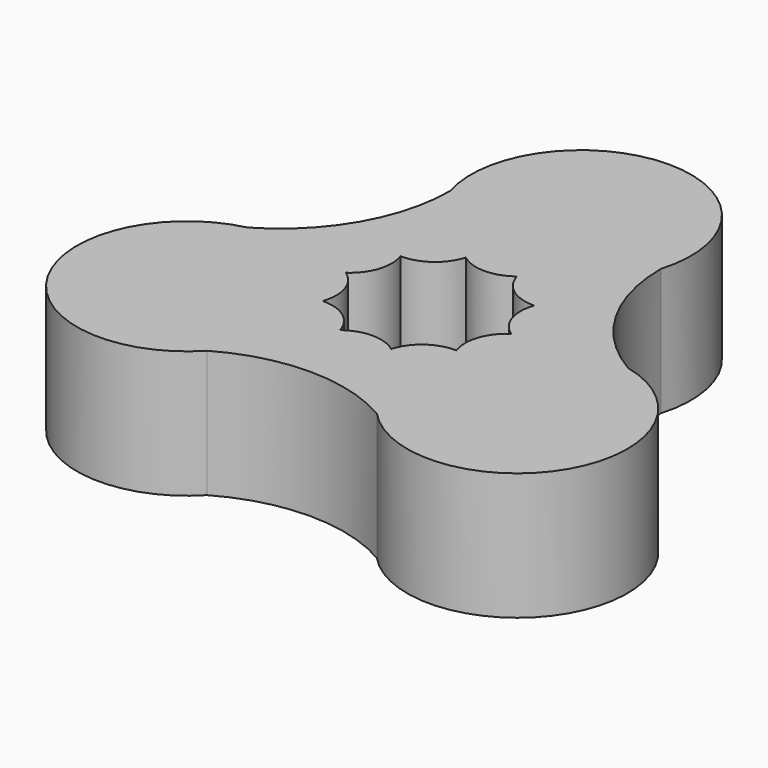
from build123d import *

# Parameters (mm, degrees)
PAD_DEPTH = 10


with BuildPart() as part:
    # Sketch → Pad (new body)
    with BuildSketch(Plane.XY):
        with BuildLine():
            ThreePointArc((8.291561, 12.500001), (10.081337, 5.820463), (14.971099, 0.930702))
            ThreePointArc((6.679538, -13.430703), (20.49038, -11.830126), (14.971099, 0.930702))
            ThreePointArc((6.679538, -13.430703), (0, -11.640926), (-6.679538, -13.430703))
            ThreePointArc((-14.971099, 0.930702), (-20.49038, -11.830126), (-6.679538, -13.430703))
            ThreePointArc((-14.971099, 0.930702), (-10.081337, 5.820463), (-8.291561, 12.500001))
            ThreePointArc((8.291561, 12.500001), (0, 23.660253), (-8.291561, 12.500001))
        make_face()
        with BuildLine():
            ThreePointArc((-6.5, 0), (-5.230811, 1.699593), (-5.25861, 3.820604))
            ThreePointArc((-5.25861, 3.820604), (-3.232819, 4.449593), (-2.00861, 6.181867))
            ThreePointArc((-2.00861, 6.181867), (0, 5.5), (2.00861, 6.181867))
            ThreePointArc((2.00861, 6.181867), (3.232819, 4.449593), (5.25861, 3.820604))
            ThreePointArc((5.25861, 3.820604), (5.230811, 1.699593), (6.5, 0))
            ThreePointArc((6.5, 0), (5.230811, -1.699593), (5.25861, -3.820604))
            ThreePointArc((5.25861, -3.820604), (3.232819, -4.449593), (2.00861, -6.181867))
            ThreePointArc((2.00861, -6.181867), (0, -5.5), (-2.00861, -6.181867))
            ThreePointArc((-2.00861, -6.181867), (-3.232819, -4.449593), (-5.25861, -3.820604))
            ThreePointArc((-5.25861, -3.820604), (-5.230811, -1.699593), (-6.5, 0))
        make_face(mode=Mode.SUBTRACT)
    extrude(amount=PAD_DEPTH)


solid = part.part
